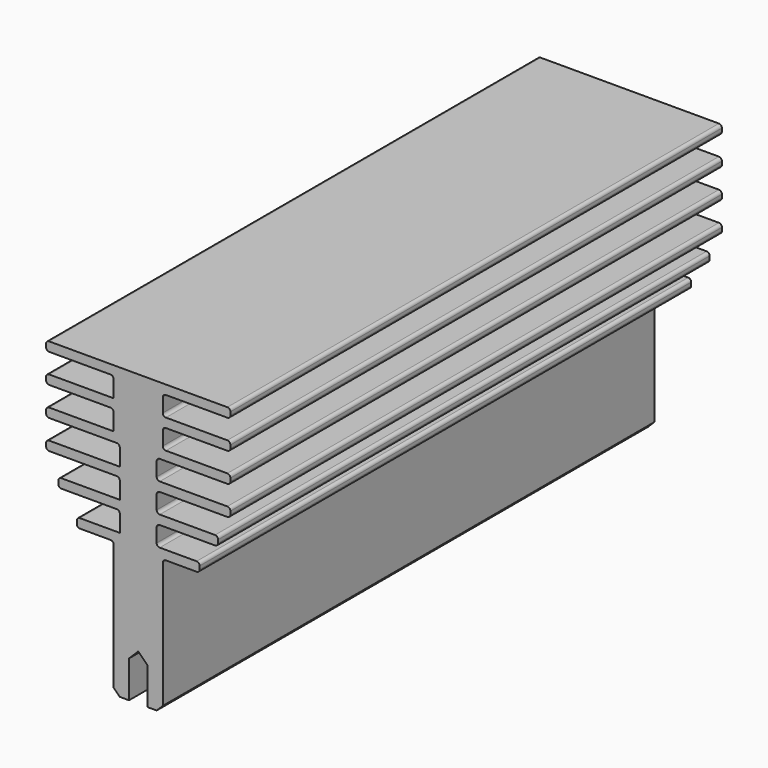
from build123d import *

# Parameters (mm, degrees)
PAD_DEPTH    = 100
FILLET_R     = 0.5
CHAMFER_SIZE = 1


with BuildPart() as part:
    # Sketch → Pad (new body)
    with BuildSketch(Plane.XZ):
        Polygon((0, 7.5), (-1.5, 6), (-1.5, 0), (-4, 0), (-4, 22), (-10, 22), (-10, 23.5), (-3, 23.5), (-3, 26.74), (-13, 26.74), (-13, 28.24), (-3, 28.24), (-3, 31.48), (-15, 31.48), (-15, 32.98), (-3, 32.98), (-3, 36.22), (-15, 36.22), (-15, 37.72), (-4, 37.72), (-4, 40.96), (-15, 40.96), (-15, 42.46), (-4, 42.46), (-4, 45.7), (-15, 45.7), (-15, 47.2), (0, 47.2), (15, 47.2), (15, 45.7), (4, 45.7), (4, 42.46), (15, 42.46), (15, 40.96), (4, 40.96), (4, 37.72), (15, 37.72), (15, 36.22), (3, 36.22), (3, 32.98), (15, 32.98), (15, 31.48), (3, 31.48), (3, 28.24), (13, 28.24), (13, 26.74), (3, 26.74), (3, 23.5), (10, 23.5), (10, 22), (4, 22), (4, 0), (1.5, 0), (1.5, 6.000001), align=None)
    extrude(amount=PAD_DEPTH)

    # Fillet
    fillet_edges = [part.edges().sort_by_distance(p)[0] for p in [
        (3, -50, 28.24),
        (3, -50, 32.98),
        (4, -50, 37.72),
        (4, -50, 42.46),
        (3, -50, 23.5),
        (15, -50, 31.48),
        (13, -50, 26.74),
        (13, -50, 28.24),
        (15, -50, 32.98),
        (15, -50, 36.22),
        (15, -50, 37.72),
        (15, -50, 40.96),
        (15, -50, 42.46),
        (15, -50, 45.7),
        (15, -50, 47.2),
        (10, -50, 22),
        (10, -50, 23.5),
        (4, -50, 22),
        (3, -50, 26.74),
        (3, -50, 31.48),
        (3, -50, 36.22),
        (4, -50, 40.96),
        (4, -50, 45.7),
        (-4, -50, 22),
        (-10, -50, 22),
        (-10, -50, 23.5),
        (-3, -50, 26.74),
        (-13, -50, 26.74),
        (-13, -50, 28.24),
        (-3, -50, 31.48),
        (-15, -50, 31.48),
        (-15, -50, 32.98),
        (-3, -50, 36.22),
        (-15, -50, 36.22),
        (-15, -50, 37.72),
        (-4, -50, 40.96),
        (-15, -50, 40.96),
        (-15, -50, 42.46),
        (-4, -50, 45.7),
        (-15, -50, 45.7),
        (-15, -50, 47.2),
    ]]
    fillet(fillet_edges, radius=FILLET_R)

    # Chamfer
    chamfer_edges = [part.edges().sort_by_distance(p)[0] for p in [
        (4, -50, 0),
        (-4, -50, 0),
    ]]
    chamfer(chamfer_edges, length=CHAMFER_SIZE)


solid = part.part
